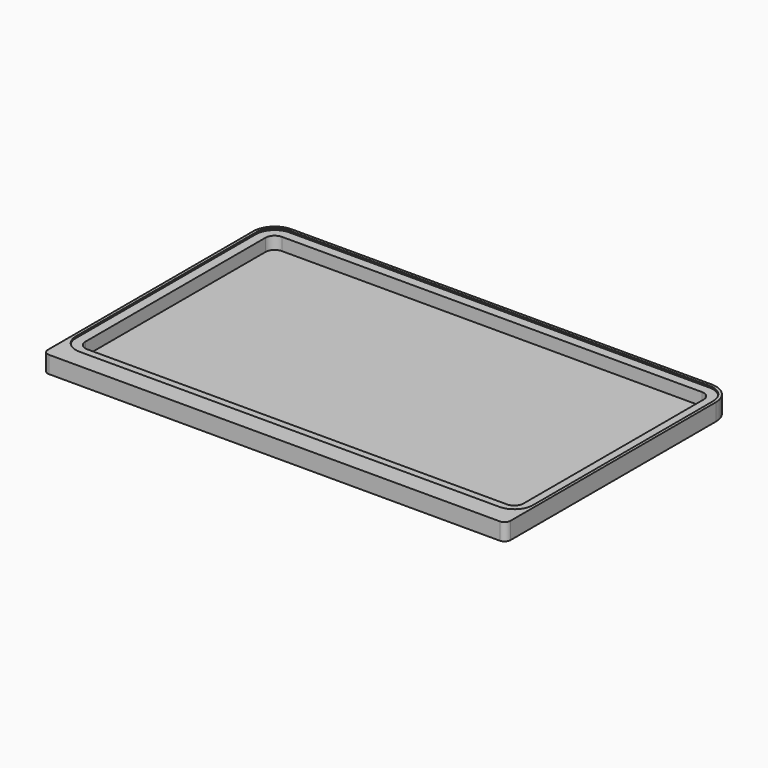
from build123d import *

# Parameters (mm, degrees)
F1_DEPTH = 5.3
F2_DEPTH = 6
F3_DEPTH = 1.2
F4_R     = 2.5


with BuildPart() as f1:
    # F0 (on Top) → F1 (new body)
    with BuildSketch(Plane.XY):
        with BuildLine():
            Line((88.64, 56.511587), (-88.64, 56.511587))
            ThreePointArc((-88.64, 56.511587), (-94.197859, 54.209447), (-96.5, 48.651587))
            Line((-96.5, 48.651587), (-96.5, -46.428413))
            ThreePointArc((-96.5, -46.428413), (-94.197859, -51.986272), (-88.64, -54.288413))
            Line((-88.64, -54.288413), (88.64, -54.288413))
            ThreePointArc((88.64, -54.288413), (94.197859, -51.986272), (96.5, -46.428413))
            Line((96.5, -46.428413), (96.5, 48.651587))
            ThreePointArc((96.5, 48.651587), (94.197859, 54.209447), (88.64, 56.511587))
        make_face()
        with BuildLine():
            ThreePointArc((-92.5, 48.651587), (-91.369432, 51.38102), (-88.64, 52.511587))
            Line((-88.64, 52.511587), (88.64, 52.511587))
            ThreePointArc((88.64, 52.511587), (91.369432, 51.38102), (92.5, 48.651587))
            Line((92.5, 48.651587), (92.5, -46.428413))
            ThreePointArc((92.5, -46.428413), (91.369432, -49.157845), (88.64, -50.288413))
            Line((88.64, -50.288413), (-88.64, -50.288413))
            ThreePointArc((-88.64, -50.288413), (-91.369432, -49.157845), (-92.5, -46.428413))
            Line((-92.5, -46.428413), (-92.5, 48.651587))
        make_face(mode=Mode.SUBTRACT)
    extrude(amount=F1_DEPTH)

    # F0 (on Top) → F2 (join)
    with BuildSketch(Plane.XY):
        with BuildLine():
            ThreePointArc((-88.64, 57.711587), (-95.046387, 55.057975), (-97.7, 48.651587))
            Line((-97.7, 48.651587), (-97.7, -46.428413))
            Line((-97.7, -46.428413), (-97.7, -62.288413))
            Line((-97.7, -62.288413), (97.7, -62.288413))
            Line((97.7, -62.288413), (97.7, -46.428413))
            Line((97.7, -46.428413), (97.7, 48.651587))
            ThreePointArc((97.7, 48.651587), (95.046387, 55.057975), (88.64, 57.711587))
            Line((88.64, 57.711587), (-88.64, 57.711587))
        make_face()
        with BuildLine():
            ThreePointArc((-96.5, 48.651587), (-94.197859, 54.209447), (-88.64, 56.511587))
            Line((-88.64, 56.511587), (88.64, 56.511587))
            ThreePointArc((88.64, 56.511587), (94.197859, 54.209447), (96.5, 48.651587))
            Line((96.5, 48.651587), (96.5, -46.428413))
            ThreePointArc((96.5, -46.428413), (94.197859, -51.986272), (88.64, -54.288413))
            Line((88.64, -54.288413), (-88.64, -54.288413))
            ThreePointArc((-88.64, -54.288413), (-94.197859, -51.986272), (-96.5, -46.428413))
            Line((-96.5, -46.428413), (-96.5, 48.651587))
        make_face(mode=Mode.SUBTRACT)
    extrude(amount=F2_DEPTH)

    # F0 (on Top) → F3 (join)
    with BuildSketch(Plane.XY):
        with BuildLine():
            ThreePointArc((-88.64, 57.711587), (-95.046387, 55.057975), (-97.7, 48.651587))
            Line((-97.7, 48.651587), (-97.7, -46.428413))
            Line((-97.7, -46.428413), (-97.7, -62.288413))
            Line((-97.7, -62.288413), (97.7, -62.288413))
            Line((97.7, -62.288413), (97.7, -46.428413))
            Line((97.7, -46.428413), (97.7, 48.651587))
            ThreePointArc((97.7, 48.651587), (95.046387, 55.057975), (88.64, 57.711587))
            Line((88.64, 57.711587), (-88.64, 57.711587))
        make_face()
        with BuildLine():
            ThreePointArc((-96.5, 48.651587), (-94.197859, 54.209447), (-88.64, 56.511587))
            Line((-88.64, 56.511587), (88.64, 56.511587))
            ThreePointArc((88.64, 56.511587), (94.197859, 54.209447), (96.5, 48.651587))
            Line((96.5, 48.651587), (96.5, -46.428413))
            ThreePointArc((96.5, -46.428413), (94.197859, -51.986272), (88.64, -54.288413))
            Line((88.64, -54.288413), (-88.64, -54.288413))
            ThreePointArc((-88.64, -54.288413), (-94.197859, -51.986272), (-96.5, -46.428413))
            Line((-96.5, -46.428413), (-96.5, 48.651587))
        make_face(mode=Mode.SUBTRACT)
        with BuildLine():
            Line((88.64, 56.511587), (-88.64, 56.511587))
            ThreePointArc((-88.64, 56.511587), (-94.197859, 54.209447), (-96.5, 48.651587))
            Line((-96.5, 48.651587), (-96.5, -46.428413))
            ThreePointArc((-96.5, -46.428413), (-94.197859, -51.986272), (-88.64, -54.288413))
            Line((-88.64, -54.288413), (88.64, -54.288413))
            ThreePointArc((88.64, -54.288413), (94.197859, -51.986272), (96.5, -46.428413))
            Line((96.5, -46.428413), (96.5, 48.651587))
            ThreePointArc((96.5, 48.651587), (94.197859, 54.209447), (88.64, 56.511587))
        make_face()
        with BuildLine():
            ThreePointArc((-92.5, 48.651587), (-91.369432, 51.38102), (-88.64, 52.511587))
            Line((-88.64, 52.511587), (88.64, 52.511587))
            ThreePointArc((88.64, 52.511587), (91.369432, 51.38102), (92.5, 48.651587))
            Line((92.5, 48.651587), (92.5, -46.428413))
            ThreePointArc((92.5, -46.428413), (91.369432, -49.157845), (88.64, -50.288413))
            Line((88.64, -50.288413), (-88.64, -50.288413))
            ThreePointArc((-88.64, -50.288413), (-91.369432, -49.157845), (-92.5, -46.428413))
            Line((-92.5, -46.428413), (-92.5, 48.651587))
        make_face(mode=Mode.SUBTRACT)
        with BuildLine():
            Line((88.64, 52.511587), (-88.64, 52.511587))
            ThreePointArc((-88.64, 52.511587), (-91.369432, 51.38102), (-92.5, 48.651587))
            Line((-92.5, 48.651587), (-92.5, -46.428413))
            ThreePointArc((-92.5, -46.428413), (-91.369432, -49.157845), (-88.64, -50.288413))
            Line((-88.64, -50.288413), (88.64, -50.288413))
            ThreePointArc((88.64, -50.288413), (91.369432, -49.157845), (92.5, -46.428413))
            Line((92.5, -46.428413), (92.5, 48.651587))
            ThreePointArc((92.5, 48.651587), (91.369432, 51.38102), (88.64, 52.511587))
        make_face()
    extrude(amount=-F3_DEPTH)

    # F4
    f4_edges = [f1.edges().sort_by_distance(p)[0] for p in [
        (97.7, -62.288413, 2.4),
        (-97.7, -62.288413, 2.4),
    ]]
    fillet(f4_edges, radius=F4_R)


solid = f1.part
